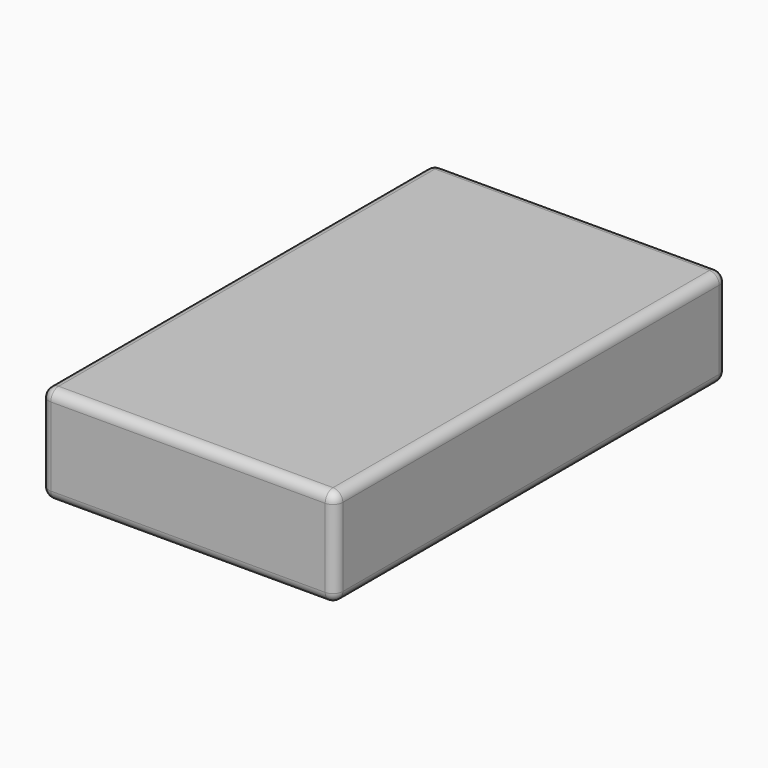
from build123d import *

# Parameters (mm, degrees)
F0_W     = 152.4
F0_H     = 254
F1_DEPTH = 50.8
F2_R     = 5.08
F3_R     = 10.16
F4_DEPTH = 25.4


with BuildPart() as f1:
    # F0 (on Top) → F1 (new body)
    with BuildSketch(Plane.XY):
        Rectangle(F0_W, F0_H)
    extrude(amount=F1_DEPTH)

    # F2
    f2_edges = [f1.edges().sort_by_distance(p)[0] for p in [
        (-76.2, 0, 50.8),
        (-76.2, 127, 25.4),
        (-76.2, 0, 0),
        (-76.2, -127, 25.4),
        (0, -127, 50.8),
        (0, -127, 0),
        (76.2, -127, 25.4),
        (76.2, 0, 50.8),
        (76.2, 0, 0),
        (76.2, 127, 25.4),
        (0, 127, 0),
        (0, 127, 50.8),
    ]]
    fillet(f2_edges, radius=F2_R)

    # F3 (on face) → F4 (join)
    with BuildSketch(Plane(origin=(0, 0, 0), x_dir=(1, 0, 0), z_dir=(0, 0, -1))):
        Circle(F3_R)
    extrude(amount=F4_DEPTH)


solid = f1.part
